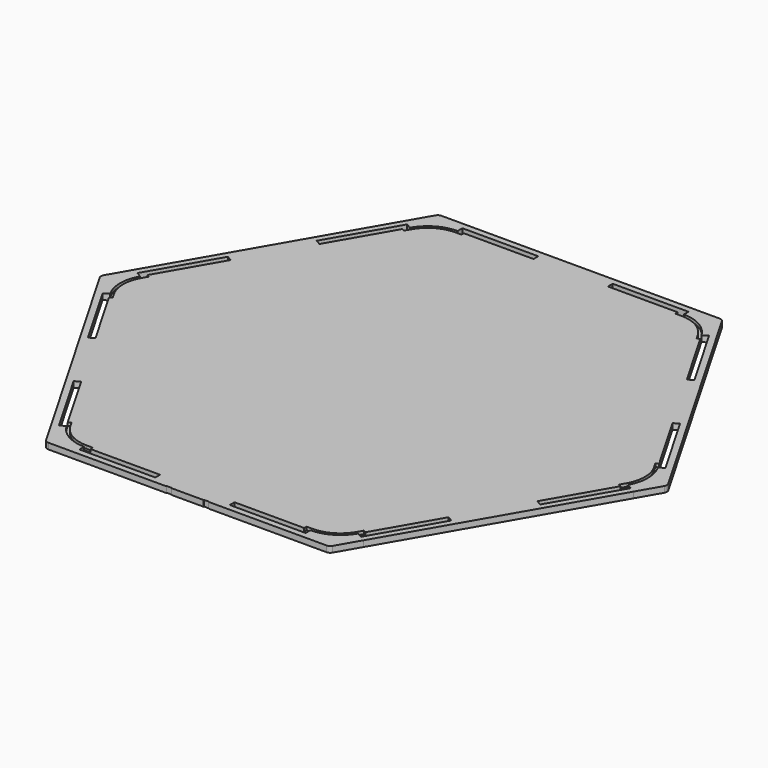
from build123d import *

# Parameters (mm, degrees)
F1_DEPTH  = 3.048
F2_W      = 115.7319251503
F2_H      = 3.048
F3_DEPTH  = 3.049
F5_W      = 2.54
F5_H      = 0.254
F6_DEPTH  = 3.049
F8_DEPTH  = 3.048
F9_W      = 3.175
F9_H      = 1.524
F10_DEPTH = 1.5875
F11_W     = 38.1
F11_H     = 3.048
F12_DEPTH = 3.048


with BuildPart() as f1:
    # F0 (on Top) → F1 (new body)
    with BuildSketch(Plane.XY):
        with BuildLine():
            Line((-79.9225977639, 113.03), (-137.8481502717, 12.7))
            ThreePointArc((-137.8481502717, 12.7), (-141.2511050156, 0), (-137.8481502717, -12.7))
            Line((-137.8481502717, -12.7), (-79.9225977639, -113.03))
            ThreePointArc((-79.9225977639, -113.03), (-70.6255525078, -122.3270452561), (-57.9255525078, -125.73))
            Line((-57.9255525078, -125.73), (57.9255525078, -125.73))
            ThreePointArc((57.9255525078, -125.73), (70.6255525078, -122.3270452561), (79.9225977639, -113.03))
            Line((79.9225977639, -113.03), (137.8481502717, -12.7))
            ThreePointArc((137.8481502717, -12.7), (141.2511050156, 0), (137.8481502717, 12.7))
            Line((137.8481502717, 12.7), (79.9225977639, 113.03))
            ThreePointArc((79.9225977639, 113.03), (70.6255525078, 122.3270452561), (57.9255525078, 125.73))
            Line((57.9255525078, 125.73), (-57.9255525078, 125.73))
            ThreePointArc((-57.9255525078, 125.73), (-70.6255525078, 122.3270452561), (-79.9225977639, 113.03))
        make_face()
    extrude(amount=F1_DEPTH)

    # F2 (on face) → F3 (cut, through all)
    with BuildSketch(Plane.XY.offset(3.048)):
        Polygon((-135.0389296821, -11.215712791), (-77.1729671069, -111.4425), (-74.5333216761, -109.9185), (-132.3992842513, -9.6917127909), align=None)
        Polygon((-77.2325570395, 111.339287209), (-135.0985196147, 11.1125), (-132.4588741839, 9.5885), (-74.5929116088, 109.8152872091), align=None)
        with Locations((-0.0595899326, 121.031)):
            Rectangle(F2_W, F2_H)
        Polygon((135.0389296821, 11.215712791), (77.1729671069, 111.4425), (74.5333216761, 109.9185), (132.3992842513, 9.691712791), align=None)
        Polygon((77.2325570395, -111.339287209), (135.0985196147, -11.1125), (132.4588741839, -9.5885), (74.5929116088, -109.815287209), align=None)
        with Locations((0.0595899326, -121.031)):
            Rectangle(F2_W, F2_H)
    extrude(amount=-F3_DEPTH, mode=Mode.SUBTRACT)

    # F5 (on face) → F6 (cut, through all)
    with BuildSketch(Plane.XY.offset(3.048)):
        with Locations((-9.525, -125.603)):
            Rectangle(F5_W, F5_H)
        with Locations((9.5845899326, -125.603)):
            Rectangle(F5_W, F5_H)
    extrude(amount=-F6_DEPTH, mode=Mode.SUBTRACT)

    # F7 (on face) → F8 (join)
    with BuildSketch(Plane.XY.offset(3.048)):
        with BuildLine():
            Line((-73.3234841871, 124.46), (-79.9225977639, 113.03))
            Line((-79.9225977639, 113.03), (-57.9255525078, 125.73))
            Line((-57.9255525078, 125.73), (-71.1237796615, 125.73))
            ThreePointArc((-71.1237796615, 125.73), (-72.3937796615, 125.3897045256), (-73.3234841871, 124.46))
        make_face()
        with BuildLine():
            ThreePointArc((-137.8481502717, -12.7), (-141.2511050156, 0), (-137.8481502717, 12.7))
            Line((-137.8481502717, 12.7), (-144.4472638486, 1.27))
            ThreePointArc((-144.4472638486, 1.27), (-144.7875593229, 0), (-144.4472638486, -1.27))
            Line((-144.4472638486, -1.27), (-137.8481502717, -12.7))
        make_face()
        with BuildLine():
            ThreePointArc((-57.9255525078, -125.73), (-70.6255525078, -122.3270452561), (-79.9225977639, -113.03))
            Line((-79.9225977639, -113.03), (-73.3234841871, -124.46))
            ThreePointArc((-73.3234841871, -124.46), (-72.3937796615, -125.3897045256), (-71.1237796615, -125.73))
            Line((-71.1237796615, -125.73), (-57.9255525078, -125.73))
        make_face()
        with BuildLine():
            Line((73.3234841871, -124.46), (79.9225977639, -113.03))
            ThreePointArc((79.9225977639, -113.03), (70.6255525078, -122.3270452561), (57.9255525078, -125.73))
            Line((57.9255525078, -125.73), (71.1237796615, -125.73))
            ThreePointArc((71.1237796615, -125.73), (72.3937796615, -125.3897045256), (73.3234841871, -124.46))
        make_face()
        with BuildLine():
            Line((144.4472638486, 1.27), (137.8481502717, 12.7))
            ThreePointArc((137.8481502717, 12.7), (141.2511050156, 0), (137.8481502717, -12.7))
            Line((137.8481502717, -12.7), (144.4472638486, -1.27))
            ThreePointArc((144.4472638486, -1.27), (144.7875593229, 0), (144.4472638486, 1.27))
        make_face()
        with BuildLine():
            Line((71.1237796615, 125.73), (57.9255525078, 125.73))
            ThreePointArc((57.9255525078, 125.73), (70.6255525078, 122.3270452561), (79.9225977639, 113.03))
            Line((79.9225977639, 113.03), (73.3234841871, 124.46))
            ThreePointArc((73.3234841871, 124.46), (72.3937796615, 125.3897045256), (71.1237796615, 125.73))
        make_face()
    extrude(amount=-F8_DEPTH)

    # F9 (on face) → F10 (cut)
    with BuildSketch(Plane.XY.offset(3.048)):
        with BuildLine():
            Line((-57.9255525078, 117.983), (-57.9255525078, 119.507))
            ThreePointArc((-57.9255525078, 119.507), (-67.5657049473, 116.9079552121), (-74.5929116088, 109.8152872091))
            Line((-74.5929116088, 109.8152872091), (-73.2684038811, 109.0614601206))
            ThreePointArc((-73.2684038811, 109.0614601206), (-66.7996293906, 115.5904939256), (-57.9255525078, 117.983))
        make_face()
        with Locations((-56.3380525078, 118.745)):
            Rectangle(F9_W, F9_H)
        Polygon((-73.2684038811, 109.0614601206), (-74.5929116088, 109.8152872091), (-76.1804116088, 107.065656552), (-74.8388469782, 106.3021217395), align=None)
        with BuildLine():
            Line((73.2182344036, 109.1483562046), (74.5333216761, 109.9185))
            ThreePointArc((74.5333216761, 109.9185), (67.446525082, 116.9398894425), (57.8063726425, 119.507))
            Line((57.8063726425, 119.507), (57.8063726425, 117.983))
            ThreePointArc((57.8063726425, 117.983), (66.6886079177, 115.6177179059), (73.2182344036, 109.1483562046))
        make_face()
        Polygon((76.1208216761, 107.168869343), (74.5333216761, 109.9185), (73.2182344036, 109.1483562046), (74.801024176, 106.406883901), align=None)
        with Locations((56.2188726425, 118.745)):
            Rectangle(F9_W, F9_H)
        with BuildLine():
            Line((-131.1390514686, 8.8265), (-132.4588741839, 9.5885))
            ThreePointArc((-132.4588741839, 9.5885), (-135.0281115918, -0.0596393029), (-132.3992842513, -9.6917127909))
            Line((-132.3992842513, -9.6917127909), (-131.0841969788, -8.9215689955))
            ThreePointArc((-131.0841969788, -8.9215689955), (-133.5041188708, -0.0549290528), (-131.1390514686, 8.8265))
        make_face()
        Polygon((-130.8713741839, 12.338130657), (-132.4588741839, 9.5885), (-131.1390514686, 8.8265), (-129.563948664, 11.5940256944), align=None)
        Polygon((-131.0841969788, -8.9215689955), (-132.3992842513, -9.6917127909), (-130.8117842513, -12.4413434479), (-129.4919867512, -11.679358006), align=None)
        with BuildLine():
            Line((-73.2134989608, -109.1565), (-74.5333216761, -109.9185))
            ThreePointArc((-74.5333216761, -109.9185), (-67.4624066445, -116.9675945149), (-57.8063726425, -119.507))
            Line((-57.8063726425, -119.507), (-57.8157930976, -117.983029116))
            ThreePointArc((-57.8157930976, -117.983029116), (-66.7044894803, -115.6454229784), (-73.2134989608, -109.1565))
        make_face()
        Polygon((-76.1208216761, -107.1688693429), (-74.5333216761, -109.9185), (-73.2134989608, -109.1565), (-74.8009989608, -106.4068693429), align=None)
        Polygon((-57.8157930976, -117.983029116), (-57.8063726425, -119.507), (-54.6313726425, -119.507), (-54.6313726425, -117.983029116), align=None)
        with BuildLine():
            Line((57.9161320527, -117.983029116), (57.9255525078, -119.507))
            ThreePointArc((57.9255525078, -119.507), (67.5496524319, -116.8803488392), (74.5929116088, -109.815287209))
            Line((74.5929116088, -109.815287209), (73.2730888934, -109.053287209))
            ThreePointArc((73.2730888934, -109.053287209), (66.7835768752, -115.5628875527), (57.9161320527, -117.983029116))
        make_face()
        Polygon((54.7505525078, -119.507), (57.9255525078, -119.507), (57.9161320527, -117.983029116), (54.7505525078, -117.983029116), align=None)
        Polygon((73.2730888934, -109.053287209), (74.5929116088, -109.815287209), (76.1804116088, -107.065656552), (74.8605888934, -106.303656552), align=None)
        with BuildLine():
            Line((131.1343664563, -8.8346729115), (132.4588741839, -9.5885))
            ThreePointArc((132.4588741839, -9.5885), (134.9961775139, 0.0595406033), (132.3992842513, 9.691712791))
            Line((132.3992842513, 9.691712791), (131.0794615359, 8.929712791))
            ThreePointArc((131.0794615359, 8.929712791), (133.4721847929, 0.0548303532), (131.1343664563, -8.8346729115))
        make_face()
        Polygon((130.8713741839, -12.338130657), (132.4588741839, -9.5885), (131.1343664563, -8.8346729115), (129.5515766838, -11.576145215), align=None)
        Polygon((131.0794615359, 8.929712791), (132.3992842513, 9.691712791), (130.8117842513, 12.441343448), (129.4919615359, 11.679343448), align=None)
    extrude(amount=-F10_DEPTH, mode=Mode.SUBTRACT)

    # F11 (on face) → F12 (join, through all)
    with BuildSketch(Plane.XY.offset(3.048)):
        with Locations((-0.0595899326, 121.031)):
            Rectangle(F11_W, F11_H)
        Polygon((-96.6405383271, 77.7236775466), (-115.6905383271, 44.7281096624), (-113.0508928964, 43.2041096624), (-94.0008928964, 76.1996775466), align=None)
        Polygon((-115.6309483945, -44.8313224534), (-96.5809483945, -77.8268903376), (-93.9413029637, -76.3028903376), (-112.9913029637, -43.3073224534), align=None)
        with Locations((0.0595899326, -121.031)):
            Rectangle(F11_W, F11_H)
        Polygon((96.6405383271, -77.7236775466), (115.6905383271, -44.7281096624), (113.0508928964, -43.2041096624), (94.0008928964, -76.1996775466), align=None)
        Polygon((115.6309483945, 44.8313224534), (96.5809483945, 77.8268903376), (93.9413029637, 76.3028903376), (112.9913029637, 43.3073224534), align=None)
    extrude(amount=-F12_DEPTH)


solid = f1.part
